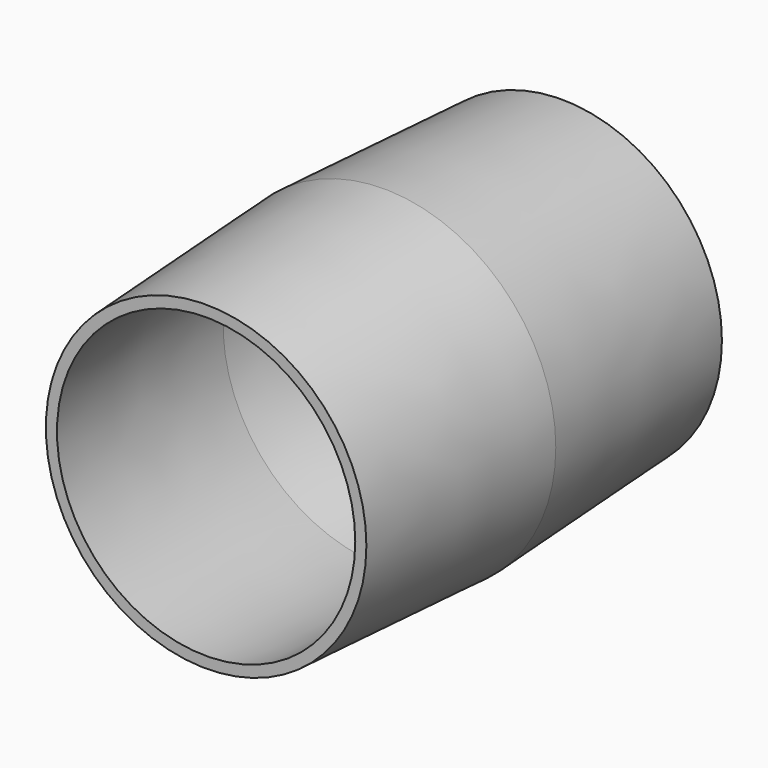
from build123d import *

# Parameters (mm, degrees)
F0_R     = 39.3007161627
F1_DEPTH = 50.8
F1_TAPER = 3
F2_T     = -2.54


with BuildPart() as f1:
    # F0 (on Front) → F1 (new body, symmetric)
    with BuildSketch(Plane.XZ):
        Circle(F0_R)
    extrude(amount=F1_DEPTH, both=True, taper=F1_TAPER)

    # F2
    f2_openings = [f1.faces().sort_by_distance(p)[0] for p in [
        (0, -50.8, 0),
    ]]
    offset(amount=F2_T, openings=f2_openings, kind=Kind.INTERSECTION)


solid = f1.part
